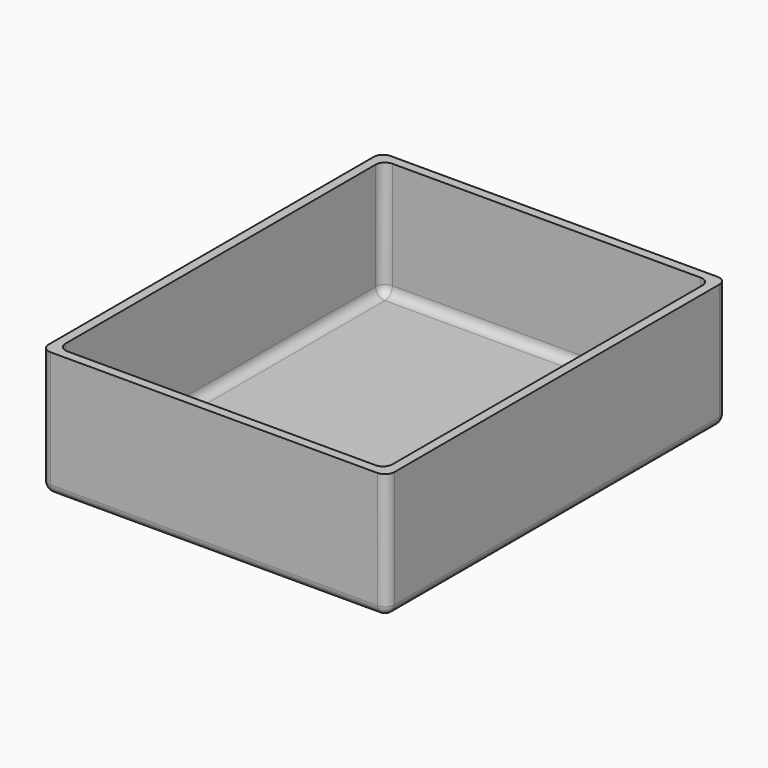
from build123d import *

# Parameters (mm, degrees)
BOX003_W     = 70
BOX003_H     = 87
BOX003_DEPTH = 39
FILLET001_R  = 2
BOX002_W     = 74
BOX002_H     = 91
BOX002_DEPTH = 27
FILLET_R     = 2


with BuildPart() as bottomcut:
    # Box003 → Box003 (new body)
    with BuildSketch(Plane(origin=(2, 2, 2), x_dir=(1, 0, 0), z_dir=(0, 0, 1))):
        with Locations((35, 43.5)):
            Rectangle(BOX003_W, BOX003_H)
    extrude(amount=BOX003_DEPTH)

    # Fillet001
    fillet001_edges = [bottomcut.edges().sort_by_distance(p)[0] for p in [
        (2, 2, 21.5),
        (2, 89, 21.5),
        (2, 45.5, 2),
        (72, 2, 21.5),
        (72, 89, 21.5),
        (72, 45.5, 2),
        (37, 2, 2),
        (37, 89, 2),
    ]]
    fillet(fillet001_edges, radius=FILLET001_R)


with BuildPart() as bottom003:
    # Box002 → Box002 (new body)
    with BuildSketch(Plane.XY):
        with Locations((37, 45.5)):
            Rectangle(BOX002_W, BOX002_H)
    extrude(amount=BOX002_DEPTH)

    # Fillet
    fillet_edges = [bottom003.edges().sort_by_distance(p)[0] for p in [
        (0, 0, 13.5),
        (0, 91, 13.5),
        (0, 45.5, 0),
        (74, 0, 13.5),
        (74, 91, 13.5),
        (74, 45.5, 0),
        (37, 0, 0),
        (37, 91, 0),
    ]]
    fillet(fillet_edges, radius=FILLET_R)

    # Cut: cut bottomCut
    add(bottomcut.part, mode=Mode.SUBTRACT)


solid = bottom003.part
